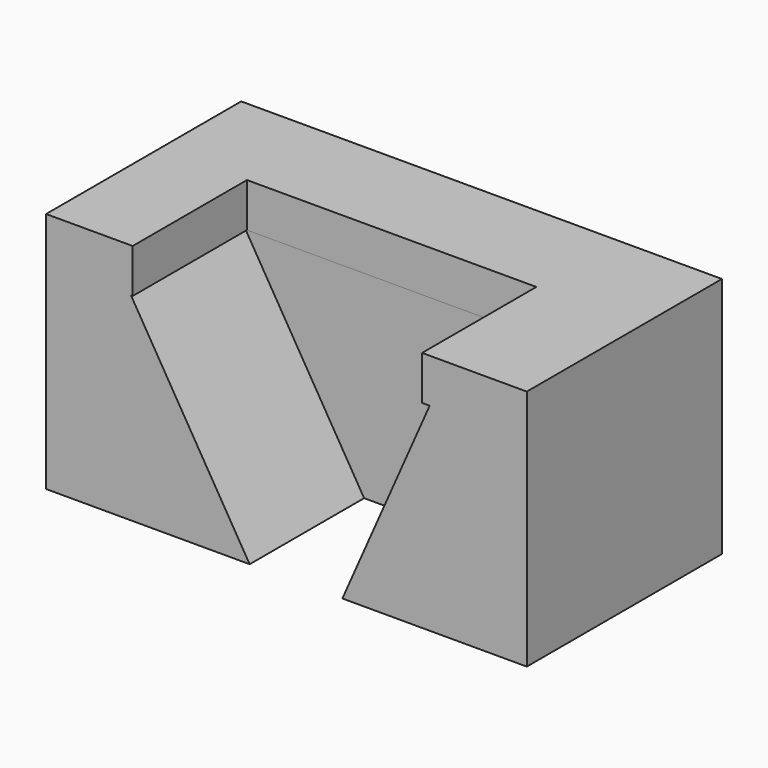
from build123d import *

# Parameters (mm, degrees)
F0_W     = 110.9441034496
F0_H     = 56.2861021608
F1_DEPTH = 55.88
F3_DEPTH = 33.02
F4_W     = 71.8694478273
F4_H     = 43.125666678
F5_DEPTH = 10.16
F6_DEPTH = 2.54
F7_DEPTH = 10.16
F8_DEPTH = 2.54


with BuildPart() as f1:
    # F0 (on Top) → F1 (new body)
    with BuildSketch(Plane.XY):
        with Locations((3.2562222332, -4.4191563502)):
            Rectangle(F0_W, F0_H)
    extrude(amount=F1_DEPTH)

    # F2 (on face) → F3 (cut)
    with BuildSketch(Plane.XZ.offset(32.5622074306)):
        Polygon((36.8650741875, 46.9826161861), (-33.3762653172, 46.9826161861), (-5.2332119085, 0), (16.1648113281, 0), align=None)
    extrude(amount=-F3_DEPTH, mode=Mode.SUBTRACT)

    # F4 (on face) → F5 (cut)
    with BuildSketch(Plane.XY.offset(55.88)):
        with Locations((1.1629350483, -10.9993740916)):
            Rectangle(F4_W, F4_H)
    extrude(amount=-F5_DEPTH, mode=Mode.SUBTRACT)

    # F6 (add): a face of the model
    f6_faces = [f1.faces().sort_by_distance(p)[0] for p in [
        (-34.7717888653, -10.9993740916, 50.8),
    ]]
    extrude(f6_faces, amount=F6_DEPTH)

    # F7 (add): a face of the model
    f7_faces = [f1.faces().sort_by_distance(p)[0] for p in [
        (2.4329350483, 10.5634592474, 50.8),
    ]]
    extrude(f7_faces, amount=F7_DEPTH)

    # F8 (add): a face of the model
    f8_faces = [f1.faces().sort_by_distance(p)[0] for p in [
        (37.097658962, -16.0793740916, 50.8),
    ]]
    extrude(f8_faces, amount=F8_DEPTH)


solid = f1.part
